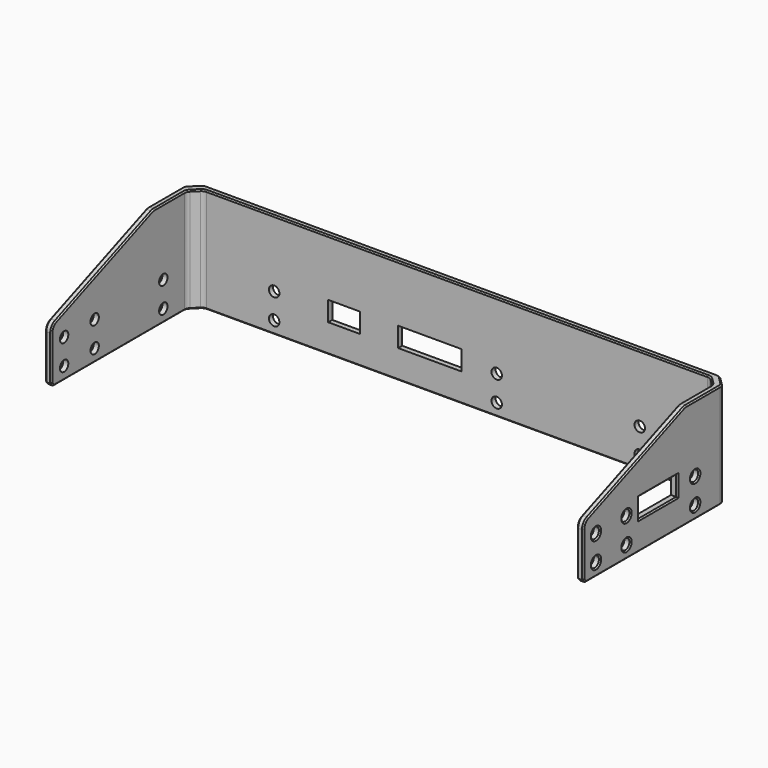
from build123d import *

# Parameters (mm, degrees)
PAD008_DEPTH    = 33
CHAMFER021_SIZE = 3
FILLET009_R     = 2
CHAMFER022_SIZE = 3.5
SKETCH036_R     = 1.65
SKETCH036_W     = 10
SKETCH036_H     = 6.2
SKETCH036_W_2   = 20
POCKET026_DEPTH = 58.151
SKETCH037_R     = 1.65
POCKET027_DEPTH = 169.301
POCKET028_DEPTH = 169.301
SKETCH039_W     = 15
SKETCH039_H     = 6.2
POCKET029_DEPTH = 2
FILLET010_R     = 3
CHAMFER024_SIZE = 1
FILLET011_R     = 2
CHAMFER025_SIZE = 0.4


with BuildPart() as part:
    # Sketch035 → Pad008 (new body)
    with BuildSketch(Plane.XY):
        Polygon((-7.15, 27), (-5.15, 27), (-5.15, 83.15), (160.15, 83.15), (160.15, 27), (162.15, 27), (162.15, 85.15), (-7.15, 85.15), align=None)
    extrude(amount=PAD008_DEPTH)

    # Chamfer021
    chamfer021_edges = [part.edges().sort_by_distance(p)[0] for p in [
        (-5.15, 83.15, 16.5),
        (160.15, 83.15, 16.5),
    ]]
    chamfer(chamfer021_edges, length=CHAMFER021_SIZE)

    # Fillet009
    fillet009_edges = [part.edges().sort_by_distance(p)[0] for p in [
        (-5.15, 80.15, 16.5),
        (-2.15, 83.15, 16.5),
        (157.15, 83.15, 16.5),
        (160.15, 80.15, 16.5),
    ]]
    fillet(fillet009_edges, radius=FILLET009_R)

    # Chamfer022
    chamfer022_edges = [part.edges().sort_by_distance(p)[0] for p in [
        (-7.15, 85.15, 16.5),
        (162.15, 85.15, 16.5),
    ]]
    chamfer(chamfer022_edges, length=CHAMFER022_SIZE)

    # Sketch036 (on Face5 of Chamfer022) → Pocket026 (cut, through all)
    with BuildSketch(Plane(origin=(0, 85.15, 0), x_dir=(-1, 0, 0), z_dir=(0, 1, 0))):
        with Locations((-135, 12)):
            Circle(SKETCH036_R)
        with Locations((-135, 4)):
            Circle(SKETCH036_R)
        with Locations((-90, 12)):
            Circle(SKETCH036_R)
        with Locations((-90, 4)):
            Circle(SKETCH036_R)
        with Locations((-20, 12)):
            Circle(SKETCH036_R)
        with Locations((-20, 4)):
            Circle(SKETCH036_R)
        with Locations((-42, 12.1)):
            Rectangle(SKETCH036_W, SKETCH036_H)
        with Locations((-69, 12.1)):
            Rectangle(SKETCH036_W_2, SKETCH036_H)
    extrude(amount=-POCKET026_DEPTH, mode=Mode.SUBTRACT)

    # Sketch037 (on Face9 of Pocket026) → Pocket027 (cut, through all)
    with BuildSketch(Plane.YZ.offset(162.15)):
        with Locations((44, 12)):
            Circle(SKETCH037_R)
        with Locations((44, 4)):
            Circle(SKETCH037_R)
        with Locations((71, 12)):
            Circle(SKETCH037_R)
        with Locations((71, 4)):
            Circle(SKETCH037_R)
        with Locations((32, 12)):
            Circle(SKETCH037_R)
        with Locations((32, 4)):
            Circle(SKETCH037_R)
    extrude(amount=-POCKET027_DEPTH, mode=Mode.SUBTRACT)

    # Sketch038 (on Face9 of Pocket027) → Pocket028 (cut, through all)
    with BuildSketch(Plane.YZ.offset(162.15)):
        Polygon((27, 17), (67, 33), (27, 33), align=None)
    extrude(amount=-POCKET028_DEPTH, mode=Mode.SUBTRACT)

    # Sketch039 (on Face9 of Pocket028) → Pocket029 (cut)
    with BuildSketch(Plane.YZ.offset(162.15)):
        with Locations((56.5, 12.1)):
            Rectangle(SKETCH039_W, SKETCH039_H)
    extrude(amount=-POCKET029_DEPTH, mode=Mode.SUBTRACT)

    # Fillet010
    fillet010_edges = [part.edges().sort_by_distance(p)[0] for p in [
        (-6.15, 27, 17),
        (161.15, 27, 17),
        (-6.15, 67, 33),
        (161.15, 67, 33),
    ]]
    fillet(fillet010_edges, radius=FILLET010_R)

    # Chamfer024
    chamfer024_edges = [part.edges().sort_by_distance(p)[0] for p in [
        (161.15, 27, 0),
        (-6.15, 27, 0),
    ]]
    chamfer(chamfer024_edges, length=CHAMFER024_SIZE)

    # Fillet011
    fillet011_edges = [part.edges().sort_by_distance(p)[0] for p in [
        (-3.65, 85.15, 16.5),
        (-7.15, 81.65, 16.5),
        (162.15, 81.65, 16.5),
        (158.65, 85.15, 16.5),
    ]]
    fillet(fillet011_edges, radius=FILLET011_R)

    # Chamfer025
    chamfer025_edges = [part.edges().sort_by_distance(p)[0] for p in [
        (162.15, 27, 7.984451),
        (162.15, 30.35, 12),
        (162.15, 42.35, 12),
        (162.15, 42.35, 4),
        (162.15, 30.35, 4),
        (162.15, 69.35, 12),
        (162.15, 69.35, 4),
        (162.15, 49, 12.1),
        (162.15, 56.5, 15.2),
        (162.15, 64, 12.1),
        (162.15, 56.5, 9),
        (162.15, 27.5, 0.5),
        (162.15, 54.410786, 0),
        (161.997759, 81.58694, 0),
        (160.4, 83.4, 0),
        (158.58694, 84.997759, 0),
        (77.5, 85.15, 0),
        (136.65, 85.15, 12),
        (136.65, 85.15, 4),
        (91.65, 85.15, 12),
        (91.65, 85.15, 4),
        (69, 85.15, 9),
        (79, 85.15, 12.1),
        (69, 85.15, 15.2),
        (59, 85.15, 12.1),
        (47, 85.15, 12.1),
        (42, 85.15, 9),
        (37, 85.15, 12.1),
        (42, 85.15, 15.2),
        (21.65, 85.15, 12),
        (21.65, 85.15, 4),
        (-7.15, 69.35, 12),
        (-7.15, 69.35, 4),
        (-7.15, 42.35, 12),
        (-7.15, 42.35, 4),
        (-7.15, 30.35, 12),
        (-7.15, 30.35, 4),
        (162.15, 27.515798, 16.650788),
        (162.15, 47.674702, 25.269881),
        (162.15, 67.010425, 32.945869),
        (162.15, 74.19966, 33),
        (161.997759, 81.58694, 33),
        (160.4, 83.4, 33),
        (158.58694, 84.997759, 33),
        (77.5, 85.15, 33),
        (-3.58694, 84.997759, 33),
        (-5.4, 83.4, 33),
        (-6.997759, 81.58694, 33),
        (-7.15, 74.19966, 33),
        (-7.15, 67.010425, 32.945869),
        (-7.15, 47.674702, 25.269881),
        (-7.15, 27.515798, 16.650788),
        (-7.15, 27, 7.984451),
        (-7.15, 27.5, 0.5),
        (-7.15, 54.410786, 0),
        (-6.997759, 81.58694, 0),
        (-5.4, 83.4, 0),
        (-3.58694, 84.997759, 0),
        (-5.15, 27.5, 0.5),
        (-5.15, 53.660786, 0),
        (-4.997759, 80.08694, 0),
        (-3.65, 81.65, 0),
        (-2.08694, 82.997759, 0),
        (77.5, 83.15, 0),
        (157.08694, 82.997759, 0),
        (158.65, 81.65, 0),
        (159.997759, 80.08694, 0),
        (160.15, 53.660786, 0),
        (160.15, 27.5, 0.5),
        (160.15, 27, 7.984451),
        (160.15, 27.515798, 16.650788),
        (160.15, 47.674702, 25.269881),
        (160.15, 67.010425, 32.945869),
        (160.15, 73.44966, 33),
        (159.997759, 80.08694, 33),
        (158.65, 81.65, 33),
        (157.08694, 82.997759, 33),
        (77.5, 83.15, 33),
        (-2.08694, 82.997759, 33),
        (-3.65, 81.65, 33),
        (-4.997759, 80.08694, 33),
        (-5.15, 73.44966, 33),
        (-5.15, 67.010425, 32.945869),
        (-5.15, 47.674702, 25.269881),
        (-5.15, 27.515798, 16.650788),
        (-5.15, 27, 7.984451),
    ]]
    chamfer(chamfer025_edges, length=CHAMFER025_SIZE)


with BuildPart() as part_1:
    # Body004015 placement: moved
    add(part.part.moved(Location((0, 0, -8))))


solid = part_1.part
